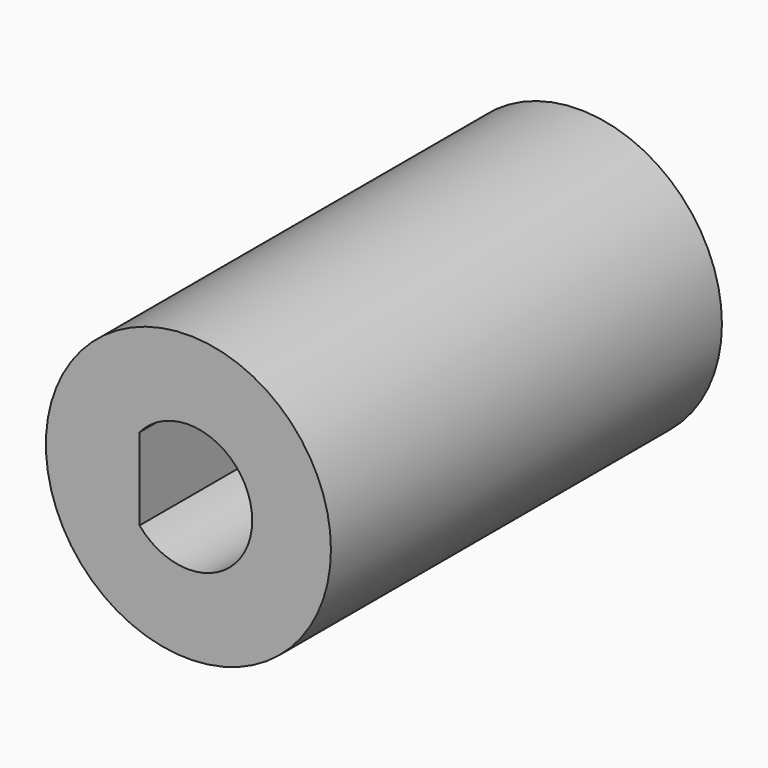
from build123d import *

# Parameters (mm, degrees)
F0_R     = 5.25
F1_DEPTH = 18
F3_DEPTH = 18


with BuildPart() as f1:
    # F0 (on Front) → F1 (new body)
    with BuildSketch(Plane.XZ):
        with Locations((-1.795046, 2.558969)):
            Circle(F0_R)
    extrude(amount=F1_DEPTH)

    # F2 (on face) → F3 (cut, through all)
    with BuildSketch(Plane.XZ.offset(18)):
        with BuildLine():
            Line((-3.595046, 4.069763), (-3.595046, 1.048174))
            ThreePointArc((-3.595046, 1.048174), (0.554954, 2.558969), (-3.595046, 4.069763))
        make_face()
    extrude(amount=-F3_DEPTH, mode=Mode.SUBTRACT)


solid = f1.part
